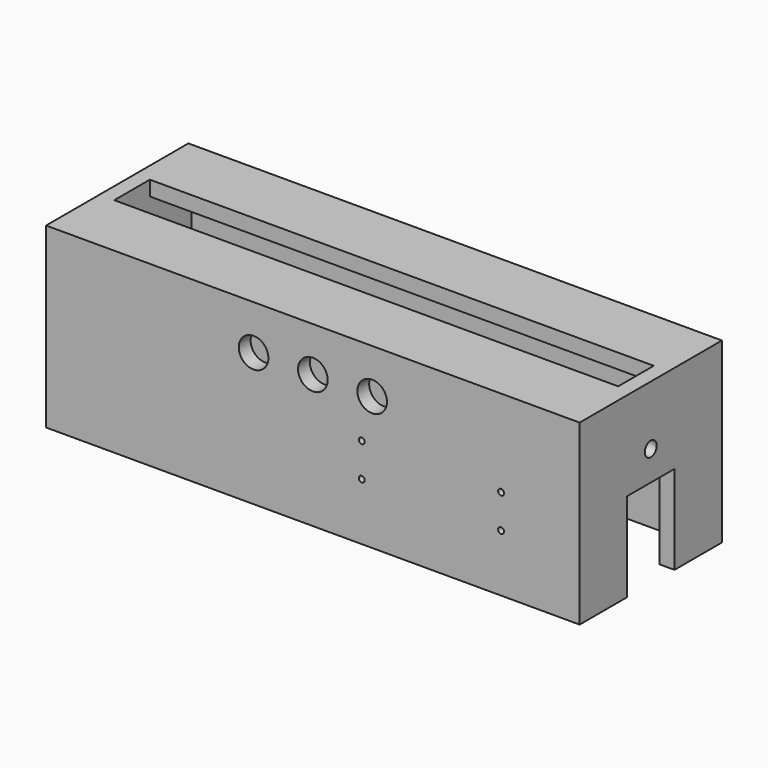
from build123d import *

# Parameters (mm, degrees)
CYLINDER010_R     = 5
CYLINDER010_DEPTH = 5
CYLINDER009_R     = 5
CYLINDER009_DEPTH = 5
CYLINDER008_R     = 5
CYLINDER008_DEPTH = 5
CYLINDER005_R     = 1
CYLINDER005_DEPTH = 13
CYLINDER006_R     = 1
CYLINDER006_DEPTH = 13
CYLINDER007_R     = 1
CYLINDER007_DEPTH = 13
CYLINDER004_R     = 1
CYLINDER004_DEPTH = 13
CYLINDER_R        = 2.5
CYLINDER_DEPTH    = 180
BOX003_W          = 170
BOX003_H          = 15
BOX003_DEPTH      = 5
BOX002_W          = 180
BOX002_H          = 20
BOX002_DEPTH      = 30
BOX_W             = 170
BOX_H             = 50
BOX_DEPTH         = 55
BOX001_W          = 180
BOX001_H          = 60
BOX001_DEPTH      = 60


with BuildPart() as led3:
    # Cylinder010 → Cylinder010 (new body)
    with BuildSketch(Plane(origin=(110, 5, 45), x_dir=(1, 0, 0), z_dir=(0, -1, 0))):
        Circle(CYLINDER010_R)
    extrude(amount=CYLINDER010_DEPTH)


with BuildPart() as led2:
    # Cylinder009 → Cylinder009 (new body)
    with BuildSketch(Plane(origin=(70, 5, 45), x_dir=(1, 0, 0), z_dir=(0, -1, 0))):
        Circle(CYLINDER009_R)
    extrude(amount=CYLINDER009_DEPTH)


with BuildPart() as leds:
    # Cylinder008 → Cylinder008 (new body)
    with BuildSketch(Plane(origin=(90, 5, 45), x_dir=(1, 0, 0), z_dir=(0, -1, 0))):
        Circle(CYLINDER008_R)
    extrude(amount=CYLINDER008_DEPTH)

    # Fusion002: union LED3, LED2
    add(led3.part)
    add(led2.part)


with BuildPart() as topleft:
    # Cylinder005 → Cylinder005 (new body)
    with BuildSketch(Plane(origin=(106.5, 14, 30.7), x_dir=(1, 0, 0), z_dir=(0, -1, 0))):
        Circle(CYLINDER005_R)
    extrude(amount=CYLINDER005_DEPTH)


with BuildPart() as bottomright:
    # Cylinder006 → Cylinder006 (new body)
    with BuildSketch(Plane(origin=(153.5, 14, 19.3), x_dir=(1, 0, 0), z_dir=(0, -1, 0))):
        Circle(CYLINDER006_R)
    extrude(amount=CYLINDER006_DEPTH)


with BuildPart() as bottomleft:
    # Cylinder007 → Cylinder007 (new body)
    with BuildSketch(Plane(origin=(153.5, 14, 30.7), x_dir=(1, 0, 0), z_dir=(0, -1, 0))):
        Circle(CYLINDER007_R)
    extrude(amount=CYLINDER007_DEPTH)


with BuildPart() as fusion001:
    # Cylinder004 → Cylinder004 (new body)
    with BuildSketch(Plane(origin=(106.5, 14, 19.3), x_dir=(1, 0, 0), z_dir=(0, -1, 0))):
        Circle(CYLINDER004_R)
    extrude(amount=CYLINDER004_DEPTH)

    # Fusion001: union TopLeft, BottomRight, BottomLeft
    add(topleft.part)
    add(bottomright.part)
    add(bottomleft.part)


with BuildPart() as fusion001_1:
    # Fusion001 placement: moved
    add(fusion001.part.moved(Location((0, -1, 0))))


with BuildPart() as cylinder:
    # Cylinder → Cylinder (new body)
    with BuildSketch(Plane(origin=(0, 30, 40), x_dir=(0, 0, -1), z_dir=(1, 0, 0))):
        Circle(CYLINDER_R)
    extrude(amount=CYLINDER_DEPTH)


with BuildPart() as cube003:
    # Box003 → Box003 (new body)
    with BuildSketch(Plane(origin=(5, 22.5, 55), x_dir=(1, 0, 0), z_dir=(0, 0, 1))):
        with Locations((85, 7.5)):
            Rectangle(BOX003_W, BOX003_H)
    extrude(amount=BOX003_DEPTH)


with BuildPart() as cube002:
    # Box002 → Box002 (new body)
    with BuildSketch(Plane(origin=(0, 20, 0), x_dir=(1, 0, 0), z_dir=(0, 0, 1))):
        with Locations((90, 10)):
            Rectangle(BOX002_W, BOX002_H)
    extrude(amount=BOX002_DEPTH)


with BuildPart() as cube:
    # Box → Box (new body)
    with BuildSketch(Plane(origin=(5, 5, 0), x_dir=(1, 0, 0), z_dir=(0, 0, 1))):
        with Locations((85, 25)):
            Rectangle(BOX_W, BOX_H)
    extrude(amount=BOX_DEPTH)


with BuildPart() as cut007:
    # Box001 → Box001 (new body)
    with BuildSketch(Plane.XY):
        with Locations((90, 30)):
            Rectangle(BOX001_W, BOX001_H)
    extrude(amount=BOX001_DEPTH)

    # Cut: cut Cube
    add(cube.part, mode=Mode.SUBTRACT)

    # Cut001: cut Cube002
    add(cube002.part, mode=Mode.SUBTRACT)

    # Cut002: cut Cube003
    add(cube003.part, mode=Mode.SUBTRACT)

    # Cut003: cut Cylinder
    add(cylinder.part, mode=Mode.SUBTRACT)

    # Cut006: cut Fusion001
    add(fusion001_1.part, mode=Mode.SUBTRACT)

    # Cut007: cut LEDs
    add(leds.part, mode=Mode.SUBTRACT)


solid = cut007.part
